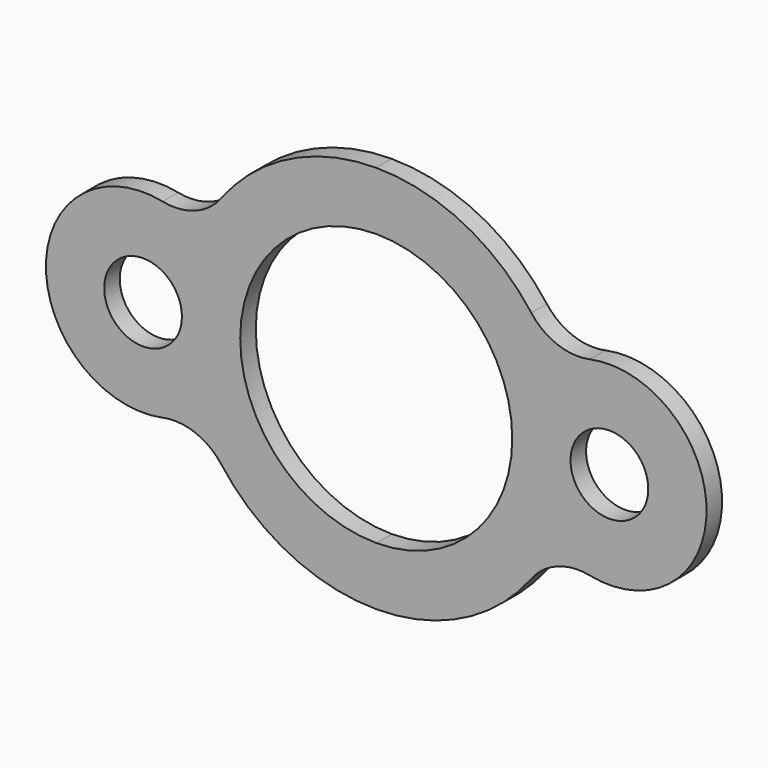
from build123d import *

# Parameters (mm, degrees)
F0_R     = 12.7
F1_DEPTH = 6.35


with BuildPart() as f1:
    # F0 (on Front) → F1 (new body)
    with BuildSketch(Plane.XZ):
        with BuildLine():
            ThreePointArc((0, 44.45), (31.430896, 31.430896), (44.45, 0))
            ThreePointArc((44.45, 0), (31.430896, -31.430896), (0, -44.45))
            Line((0, -44.45), (0, -63.5))
            ThreePointArc((0, -63.5), (28.287336, -56.851355), (50.651131, -38.297688))
            ThreePointArc((50.651131, -38.297688), (59.176439, -31.92773), (69.78608, -31.095404))
            ThreePointArc((69.78608, -31.095404), (107.949995, 0.018023), (69.750781, 31.088102))
            ThreePointArc((69.750781, 31.088102), (59.174451, 31.910614), (50.677885, 38.262279))
            ThreePointArc((50.677885, 38.262279), (28.307201, 56.841467), (0, 63.5))
            Line((0, 63.5), (0, 44.45))
        make_face()
        with Locations((76.2, 0)):
            Circle(F0_R, mode=Mode.SUBTRACT)
        with BuildLine():
            ThreePointArc((0, -44.45), (-44.45, 0), (0, 44.45))
            Line((0, 44.45), (0, 63.5))
            ThreePointArc((0, 63.5), (-28.307201, 56.841467), (-50.677885, 38.262279))
            ThreePointArc((-50.677885, 38.262279), (-59.174451, 31.910614), (-69.750781, 31.088102))
            ThreePointArc((-69.750781, 31.088102), (-107.949995, 0.018023), (-69.78608, -31.095404))
            ThreePointArc((-69.78608, -31.095404), (-59.176439, -31.92773), (-50.651131, -38.297688))
            ThreePointArc((-50.651131, -38.297688), (-28.287336, -56.851355), (0, -63.5))
            Line((0, -63.5), (0, -44.45))
        make_face()
        with Locations((-76.2, 0)):
            Circle(F0_R, mode=Mode.SUBTRACT)
    extrude(amount=F1_DEPTH)


solid = f1.part
